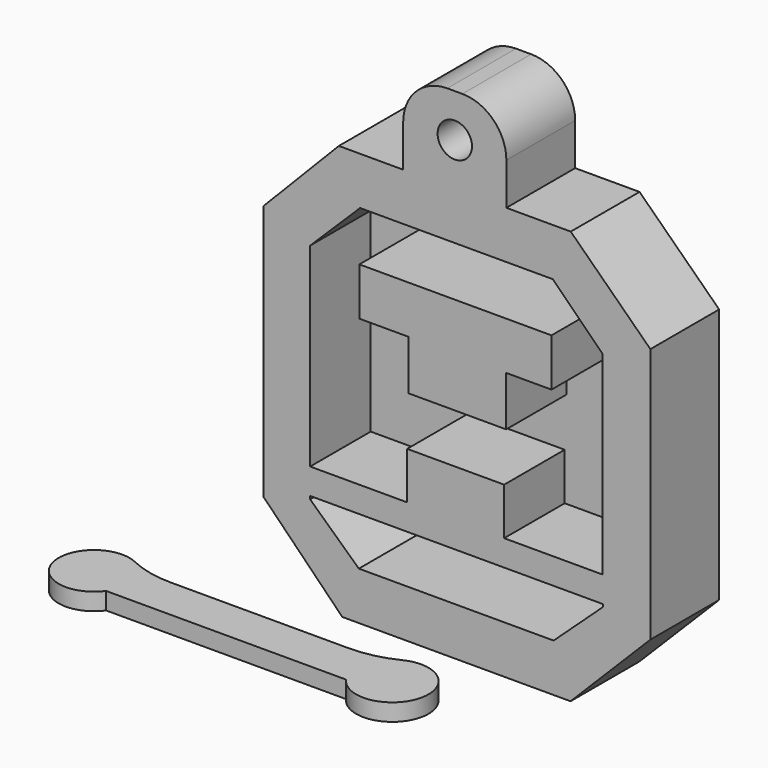
from build123d import *

# Parameters (mm, degrees)
F1_DEPTH  = 5
F2_R      = 30
F4_DEPTH  = 25
F5_DEPTH  = 3
F7_DEPTH  = 25
F8_R      = 12.7953318806
F9_R      = 5
F10_DEPTH = 44.9


with BuildPart() as f1:
    # F0 (on Top) → F1 (new body)
    with BuildSketch(Plane.XY):
        with BuildLine():
            Line((28.5444660827, 45.6706248224), (-41.8340807416, 45.6706248224))
            ThreePointArc((-41.8340807416, 45.6706248224), (-60.1126889079, 39.0092747627), (-41.5295811212, 33.2517400384))
            Line((-41.5295811212, 33.2517400384), (28.2512136258, 33.2517400384))
            ThreePointArc((28.2512136258, 33.2517400384), (47.393178108, 39.0126373548), (28.5444660827, 45.6706248224))
        make_face()
    extrude(amount=F1_DEPTH)

    # F2
    f2_edges = [f1.edges().sort_by_distance(p)[0] for p in [
        (-41.834081, 45.670625, 2.5),
        (28.544466, 45.670625, 2.5),
    ]]
    fillet(f2_edges, radius=F2_R)


with BuildPart() as f4:
    # F3 (on Front) → F4 (new body)
    with BuildSketch(Plane.XZ):
        Polygon((72.738096118, 179.7612905502), (50.7878139615, 157.2058796883), (50.7878139615, 82.8419774771), (73.7452038377, 59.5086589456), (140.1162296534, 59.5086589456), (163.3339077234, 82.8419774771), (163.3339077234, 157.2058796883), (140.1768028736, 179.7612905502), (74.6252834797, 179.7612905502), align=None)
        Polygon((64.4049271941, 86.5594475049), (64.4049271941, 87.4538868666), (149.5340764523, 87.4538868666), (149.5340764523, 86.6874158382), (135.1918131113, 73.4484046698), (78.5582363605, 73.4484046698), align=None, mode=Mode.SUBTRACT)
        Polygon((64.4049271941, 94.9794501066), (64.4049271941, 151.5417098999), (78.9152383804, 165.8793836832), (134.9744051695, 165.8793836832), (149.3608653545, 151.5417098999), (149.3608653545, 94.9794501066), (120.8112314343, 94.9794501066), (120.8112314343, 108.6802631617), (92.6103889942, 108.6802631617), (92.6103889942, 94.9794501066), align=None, mode=Mode.SUBTRACT)
    extrude(amount=F4_DEPTH)



with BuildPart() as f4b:
    # F3 (on Front) → F4, piece 2 (new body)
    with BuildSketch(Plane.XZ):
        Polygon((106.6459603608, 151.3798683882), (78.7138864398, 151.3798683882), (78.7138864398, 137.48472929), (93.0343940854, 137.48472929), (93.0343940854, 123.0224370956), (106.6459603608, 123.0224370956), align=None)
        Polygon((134.5780342817, 151.3798683882), (106.6459603608, 151.3798683882), (106.6459603608, 123.0224370956), (120.2575266361, 123.0224370956), (121.3918328285, 123.0224370956), (121.3918328285, 137.48472929), (134.5780342817, 137.48472929), align=None)
    extrude(amount=F4_DEPTH)


with BuildPart() as f4_1:
    add(f4.part)

    add(f4b.part)  # F5 merges F4b
    # F3 (on Front) → F5 (join)
    with BuildSketch(Plane.XZ):
        Polygon((72.738096118, 179.7612905502), (50.7878139615, 157.2058796883), (50.7878139615, 82.8419774771), (73.7452038377, 59.5086589456), (140.1162296534, 59.5086589456), (163.3339077234, 82.8419774771), (163.3339077234, 157.2058796883), (140.1768028736, 179.7612905502), (74.6252834797, 179.7612905502), align=None)
        Polygon((64.4049271941, 86.5594475049), (64.4049271941, 87.4538868666), (149.5340764523, 87.4538868666), (149.5340764523, 86.6874158382), (135.1918131113, 73.4484046698), (78.5582363605, 73.4484046698), align=None, mode=Mode.SUBTRACT)
        Polygon((64.4049271941, 94.9794501066), (64.4049271941, 151.5417098999), (78.9152383804, 165.8793836832), (134.9744051695, 165.8793836832), (149.3608653545, 151.5417098999), (149.3608653545, 94.9794501066), (120.8112314343, 94.9794501066), (120.8112314343, 108.6802631617), (92.6103889942, 108.6802631617), (92.6103889942, 94.9794501066), align=None, mode=Mode.SUBTRACT)
        Polygon((78.9152383804, 165.8793836832), (64.4049271941, 151.5417098999), (64.4049271941, 94.9794501066), (92.6103889942, 94.9794501066), (92.6103889942, 108.6802631617), (120.8112314343, 108.6802631617), (120.8112314343, 94.9794501066), (149.3608653545, 94.9794501066), (149.3608653545, 151.5417098999), (134.9744051695, 165.8793836832), align=None)
        Polygon((78.7138864398, 137.48472929), (78.7138864398, 151.3798683882), (106.6459603608, 151.3798683882), (134.5780342817, 151.3798683882), (134.5780342817, 137.48472929), (121.3918328285, 137.48472929), (121.3918328285, 123.0224370956), (120.2575266361, 123.0224370956), (106.6459603608, 123.0224370956), (93.0343940854, 123.0224370956), (93.0343940854, 137.48472929), align=None, mode=Mode.SUBTRACT)
        Polygon((149.5340764523, 87.4538868666), (64.4049271941, 87.4538868666), (64.4049271941, 86.5594475049), (78.5582363605, 73.4484046698), (135.1918131113, 73.4484046698), (149.5340764523, 86.6874158382), align=None)
        Polygon((134.5780342817, 151.3798683882), (106.6459603608, 151.3798683882), (106.6459603608, 123.0224370956), (120.2575266361, 123.0224370956), (121.3918328285, 123.0224370956), (121.3918328285, 137.48472929), (134.5780342817, 137.48472929), align=None)
        Polygon((106.6459603608, 151.3798683882), (78.7138864398, 151.3798683882), (78.7138864398, 137.48472929), (93.0343940854, 137.48472929), (93.0343940854, 123.0224370956), (106.6459603608, 123.0224370956), align=None)
    extrude(amount=F5_DEPTH)

    # F6 (on face) → F7 (join)
    with BuildSketch(Plane.XY.offset(179.7612905502)):
        Polygon((91.4574494958, -25), (106.4574494958, -25), (121.4574494958, -25), (121.4574494958, 0), (91.4574494958, 0), align=None)
    extrude(amount=F7_DEPTH)

    # F8
    f8_edges = [f4_1.edges().sort_by_distance(p)[0] for p in [
        (91.457449, -12.5, 204.761291),
        (121.457449, -12.5, 204.761291),
    ]]
    fillet(f8_edges, radius=F8_R)

    # F9 (on face) → F10 (cut)
    with BuildSketch(Plane.XZ.offset(25)):
        with Locations((106.4574494958, 192.2397883682)):
            Circle(F9_R)
    extrude(amount=-F10_DEPTH, mode=Mode.SUBTRACT)


solid = Compound([f1.part, f4_1.part])
